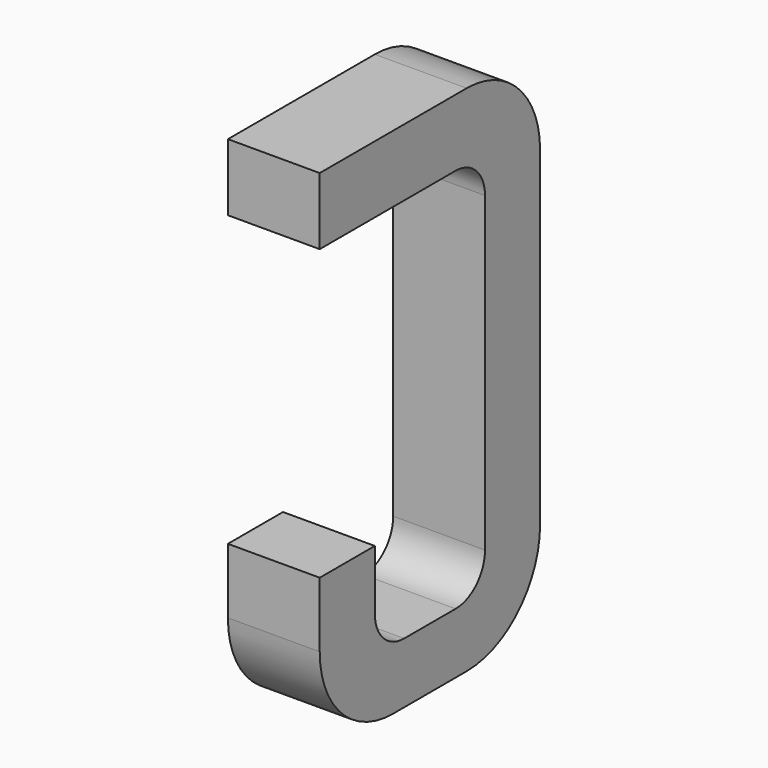
from build123d import *

# Parameters (mm, degrees)
BOX025_W     = 0.5
BOX025_H     = 1.5
BOX025_DEPTH = 2.795
FILLET103_R  = 0.5
FILLET098_R  = 0.5
FILLET102_R  = 0.5
BOX030_W     = 0.75
BOX030_H     = 2.1
BOX030_DEPTH = 1
FILLET105_R  = 0.2
FILLET106_R  = 0.2
FILLET100_R  = 0.2
FILLET104_R  = 0.2
BOX032_W     = 1
BOX032_H     = 1.575
BOX032_DEPTH = 3


with BuildPart() as part:
    # Box025 → Box025 (join)
    with BuildSketch(Plane(origin=(-0.25, 11.125, 0), x_dir=(1, 0, 0), z_dir=(0, 0, 1))):
        with Locations((0.25, 0.75)):
            Rectangle(BOX025_W, BOX025_H)
    extrude(amount=BOX025_DEPTH)

    # Fillet103
    fillet103_edges = [part.edges().sort_by_distance(p)[0] for p in [
        (0, 12.625, 0),
    ]]
    fillet(fillet103_edges, radius=FILLET103_R)

    # Fillet098
    fillet098_edges = [part.edges().sort_by_distance(p)[0] for p in [
        (0, 12.625, 2.795),
    ]]
    fillet(fillet098_edges, radius=FILLET098_R)

    # Fillet102
    fillet102_edges = [part.edges().sort_by_distance(p)[0] for p in [
        (0, 11.125, 0),
    ]]
    fillet(fillet102_edges, radius=FILLET102_R)

    # Box030 → Box030 (cut)
    with BuildSketch(Plane(origin=(-0.5, 11.5, 0.33), x_dir=(0, 1, 0), z_dir=(1, 0, 0))):
        with Locations((0.375, 1.05)):
            Rectangle(BOX030_W, BOX030_H)
    extrude(amount=BOX030_DEPTH, mode=Mode.SUBTRACT)

    # Fillet105
    fillet105_edges = [part.edges().sort_by_distance(p)[0] for p in [
        (0, 11.5, 0.33),
    ]]
    fillet(fillet105_edges, radius=FILLET105_R)

    # Fillet106
    fillet106_edges = [part.edges().sort_by_distance(p)[0] for p in [
        (0, 12.25, 0.33),
    ]]
    fillet(fillet106_edges, radius=FILLET106_R)

    # Fillet100
    fillet100_edges = [part.edges().sort_by_distance(p)[0] for p in [
        (0, 11.5, 2.43),
    ]]
    fillet(fillet100_edges, radius=FILLET100_R)

    # Fillet104
    fillet104_edges = [part.edges().sort_by_distance(p)[0] for p in [
        (0, 12.25, 2.43),
    ]]
    fillet(fillet104_edges, radius=FILLET104_R)

    # Box032 → Box032 (cut)
    with BuildSketch(Plane(origin=(-1, 11, 0.855), x_dir=(0, 1, 0), z_dir=(1, 0, 0))):
        with Locations((0.5, 0.7875)):
            Rectangle(BOX032_W, BOX032_H)
    extrude(amount=BOX032_DEPTH, mode=Mode.SUBTRACT)


with BuildPart() as part_1:
    # Body015 placement: moved
    add(part.part.moved(Location((-10.16, 0, 0))))


solid = part_1.part
